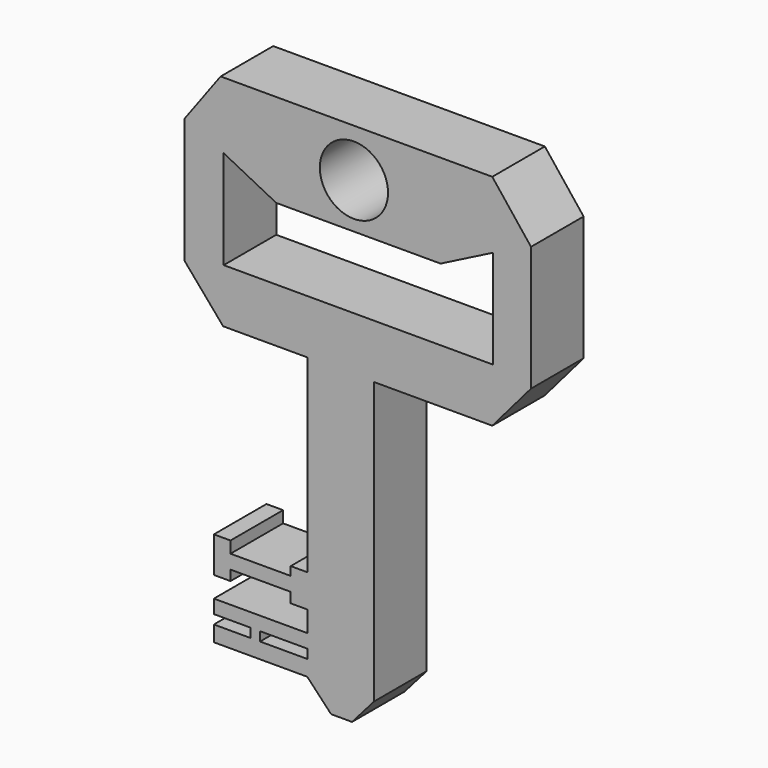
from build123d import *

# Parameters (mm, degrees)
F0_R     = 1.318091
F1_DEPTH = 2.54


with BuildPart() as f1:
    # F0 (on Front) → F1 (new body)
    with BuildSketch(Plane.XZ):
        Polygon((18.969619, 22.907), (8.471253, 22.907), (7.071988, 21.010678), (7.071988, 16.186478), (8.568975, 14.438263), (11.820342, 14.438263), (14.402508, 14.438263), (18.969619, 14.438263), (20.466606, 16.186478), (20.466606, 21.010678), align=None)
        with Locations((13.622581, 21.053264)):
            Circle(F0_R, mode=Mode.SUBTRACT)
        Polygon((8.589383, 16.525587), (8.589383, 20.335587), (10.621383, 19.303322), (16.971383, 19.303322), (19.003383, 20.335587), (19.003383, 16.525587), align=None, mode=Mode.SUBTRACT)
        Polygon((11.820342, 5.861258), (11.820342, 7.127993), (11.179376, 7.127993), (11.179376, 6.794035), (8.853191, 6.794035), (8.853191, 7.24315), (8.210989, 7.24315), (8.210989, 5.861258), (8.853191, 5.861258), (8.853191, 6.252795), (11.179376, 6.252795), (11.179376, 5.861258), align=None)
        Polygon((11.820342, 4.52877), (11.820342, 5.057655), (8.210989, 5.057655), (8.210989, 4.52877), (9.626903, 4.52877), (9.626903, 4.177111), (8.210989, 4.177111), (8.210989, 3.571151), (11.820342, 3.571151), (11.820342, 4.177111), (9.995362, 4.177111), (9.995362, 4.52877), align=None)
        Polygon((14.402508, 14.438263), (11.820342, 14.438263), (11.820342, 7.127993), (11.820342, 5.861258), (11.820342, 5.057655), (11.820342, 4.52877), (11.820342, 4.177111), (11.820342, 3.571151), (12.739667, 2.597908), (13.550113, 2.597908), (14.402508, 3.571151), align=None)
    extrude(amount=F1_DEPTH)


solid = f1.part
